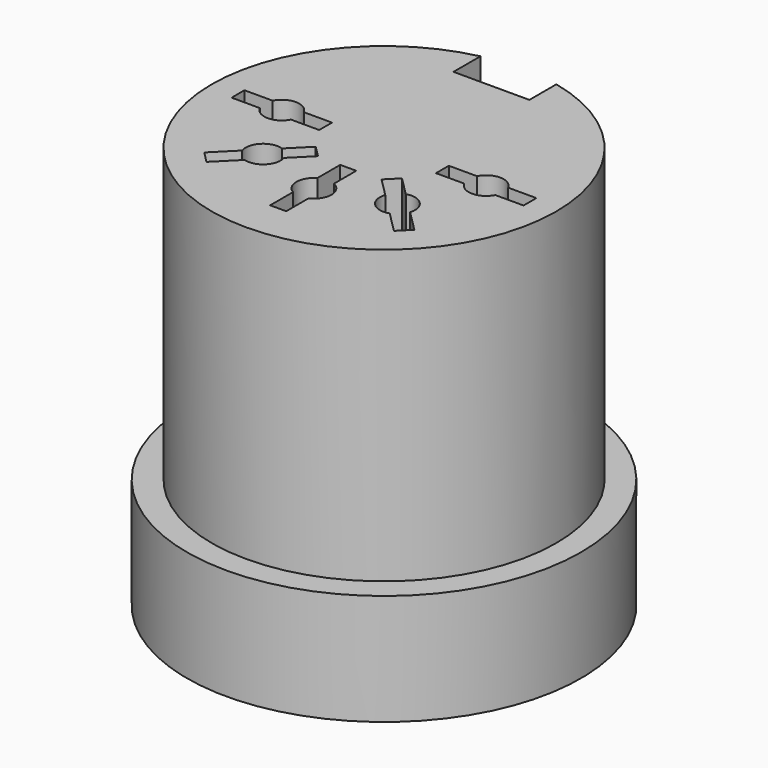
from build123d import *

# Parameters (mm, degrees)
CYLINDER042_R           = 5.9
CYLINDER042_DEPTH       = 13.8
CYLINDER044_R           = 0.6
CYLINDER044_DEPTH       = 16
CYLINDER045_R           = 0.6
CYLINDER045_DEPTH       = 16
BOX082_W                = 1.3
BOX082_H                = 2.6
BOX082_DEPTH            = 11
CYLINDER046_R           = 0.6
CYLINDER046_DEPTH       = 16
CYLINDER047_R           = 0.6
CYLINDER047_DEPTH       = 16
CYLINDER048_R           = 0.6
CYLINDER048_DEPTH       = 16
CYLINDER050_W           = 6.75
CYLINDER050_H           = 3
CYLINDER050_ANGLE       = 262
BOX084_W                = 4.4
BOX084_H                = 10.19
BOX084_DEPTH            = 2
CYLINDER051_R           = 6.75
CYLINDER051_DEPTH       = 1
BOX085_W                = 3
BOX085_H                = 0.55
BOX085_DEPTH            = 14
BOX086_W                = 3
BOX086_H                = 0.55
BOX086_DEPTH            = 14
BOX087_W                = 3
BOX087_H                = 0.55
BOX087_DEPTH            = 14
BOX088_W                = 3
BOX088_H                = 0.55
BOX088_DEPTH            = 14
BOX089_W                = 3
BOX089_H                = 0.55
BOX089_DEPTH            = 14
BOX081_W                = 5
BOX081_H                = 11
BOX081_DEPTH            = 3
BODY032_PLACEMENT_ANGLE = 90


with BuildPart() as part:
    # Cylinder042 → Cylinder042 (join)
    with BuildSketch(Plane.XY.offset(2)):
        Circle(CYLINDER042_R)
    extrude(amount=CYLINDER042_DEPTH)

    # Cylinder044 → Cylinder044 (cut)
    with BuildSketch(Plane(origin=(0, 3.5, 0), x_dir=(1, 0, 0), z_dir=(0, 0, 1))):
        Circle(CYLINDER044_R)
    extrude(amount=CYLINDER044_DEPTH, mode=Mode.SUBTRACT)

    # Cylinder045 → Cylinder045 (cut)
    with BuildSketch(Plane(origin=(0, -3.5, 0), x_dir=(1, 0, 0), z_dir=(0, 0, 1))):
        Circle(CYLINDER045_R)
    extrude(amount=CYLINDER045_DEPTH, mode=Mode.SUBTRACT)

    # Box082 → Box082 (cut)
    with BuildSketch(Plane(origin=(4.6, -1.3, 5), x_dir=(1, 0, 0), z_dir=(0, 0, 1))):
        with Locations((0.65, 1.3)):
            Rectangle(BOX082_W, BOX082_H)
    extrude(amount=BOX082_DEPTH, mode=Mode.SUBTRACT)

    # Cylinder046 → Cylinder046 (cut)
    with BuildSketch(Plane(origin=(-3, 0, 0), x_dir=(1, 0, 0), z_dir=(0, 0, 1))):
        Circle(CYLINDER046_R)
    extrude(amount=CYLINDER046_DEPTH, mode=Mode.SUBTRACT)

    # Cylinder047 → Cylinder047 (cut)
    with BuildSketch(Plane(origin=(-2.3, -2.3, 0), x_dir=(1, 0, 0), z_dir=(0, 0, 1))):
        Circle(CYLINDER047_R)
    extrude(amount=CYLINDER047_DEPTH, mode=Mode.SUBTRACT)

    # Cylinder048 → Cylinder048 (cut)
    with BuildSketch(Plane(origin=(-2.3, 2.3, 0), x_dir=(1, 0, 0), z_dir=(0, 0, 1))):
        Circle(CYLINDER048_R)
    extrude(amount=CYLINDER048_DEPTH, mode=Mode.SUBTRACT)

    # Cylinder050 → Cylinder050 (revolve)
    with BuildSketch(Plane(origin=(0, 0, 2), x_dir=(0.656059, 0.75471, 0), z_dir=(0.75471, -0.656059, 0))):
        with Locations((3.375, 1.5)):
            Rectangle(CYLINDER050_W, CYLINDER050_H)
    revolve(axis=Axis((0, 0, 2), (0, 0, 1)), revolution_arc=CYLINDER050_ANGLE)

    # Box084 → Box084 (join)
    with BuildSketch(Plane(origin=(0.03, -5.095, 2), x_dir=(1, 0, 0), z_dir=(0, 0, 1))):
        with Locations((2.2, 5.095)):
            Rectangle(BOX084_W, BOX084_H)
    extrude(amount=BOX084_DEPTH)

    # Cylinder051 → Cylinder051 (join)
    with BuildSketch(Plane.XY.offset(4.8)):
        Circle(CYLINDER051_R)
    extrude(amount=CYLINDER051_DEPTH)

    # Box085 → Box085 (cut)
    with BuildSketch(Plane(origin=(0.275, -5, 2), x_dir=(0, 1, 0), z_dir=(0, 0, 1))):
        with Locations((1.5, 0.275)):
            Rectangle(BOX085_W, BOX085_H)
    extrude(amount=BOX085_DEPTH, mode=Mode.SUBTRACT)

    # Box086 → Box086 (cut)
    with BuildSketch(Plane(origin=(-3.6, 3.2, 2), x_dir=(0.707107, -0.707107, 0), z_dir=(0, 0, 1))):
        with Locations((1.5, 0.275)):
            Rectangle(BOX086_W, BOX086_H)
    extrude(amount=BOX086_DEPTH, mode=Mode.SUBTRACT)

    # Box087 → Box087 (cut)
    with BuildSketch(Plane(origin=(-4.5, -0.25, 2), x_dir=(1, 0, 0), z_dir=(0, 0, 1))):
        with Locations((1.5, 0.275)):
            Rectangle(BOX087_W, BOX087_H)
    extrude(amount=BOX087_DEPTH, mode=Mode.SUBTRACT)

    # Box088 → Box088 (cut)
    with BuildSketch(Plane(origin=(-3.2, -3.6, 2), x_dir=(0.707107, 0.707107, 0), z_dir=(0, 0, 1))):
        with Locations((1.5, 0.275)):
            Rectangle(BOX088_W, BOX088_H)
    extrude(amount=BOX088_DEPTH, mode=Mode.SUBTRACT)

    # Box089 → Box089 (cut)
    with BuildSketch(Plane(origin=(0.275, 2, 2), x_dir=(0, 1, 0), z_dir=(0, 0, 1))):
        with Locations((1.5, 0.275)):
            Rectangle(BOX089_W, BOX089_H)
    extrude(amount=BOX089_DEPTH, mode=Mode.SUBTRACT)

    # Box081 → Box081 (cut)
    with BuildSketch(Plane(origin=(4.39, -5.5, 2), x_dir=(1, 0, 0), z_dir=(0, 0, 1))):
        with Locations((2.5, 5.5)):
            Rectangle(BOX081_W, BOX081_H)
    extrude(amount=BOX081_DEPTH, mode=Mode.SUBTRACT)


with BuildPart() as part_1:
    # Body032 placement: moved
    add(part.part.rotate(Axis((0, 0, 0), (0, 0, 1)), BODY032_PLACEMENT_ANGLE))


solid = part_1.part
